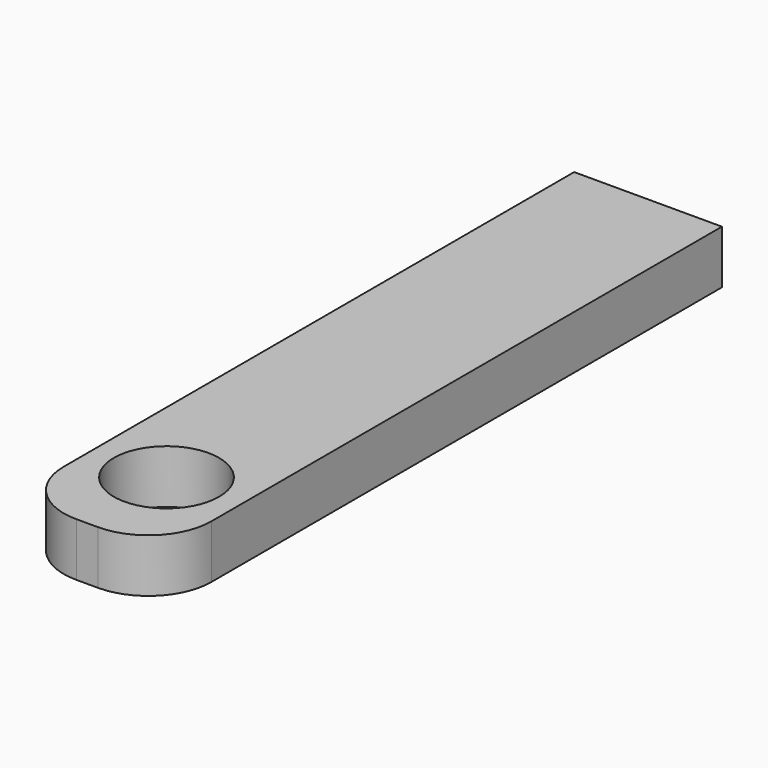
from build123d import *

# Parameters (mm, degrees)
F0_W     = 5.352506
F0_H     = 1.93545
F1_DEPTH = 25.4
F2_R     = 2.286
F3_R     = 1.907129
F4_DEPTH = 2.39776


with BuildPart() as f1:
    # F0 (on Front) → F1 (new body)
    with BuildSketch(Plane.XZ):
        Rectangle(F0_W, F0_H)
    extrude(amount=F1_DEPTH)

    # F2
    f2_edges = [f1.edges().sort_by_distance(p)[0] for p in [
        (-2.676253, -25.4, 0),
        (2.676253, -25.4, 0),
    ]]
    fillet(f2_edges, radius=F2_R)

    # F3 (on face) → F4 (cut)
    with BuildSketch(Plane.XY.offset(0.967725)):
        with Locations((0, -21.805298)):
            Circle(F3_R)
    extrude(amount=-F4_DEPTH, mode=Mode.SUBTRACT)


solid = f1.part
